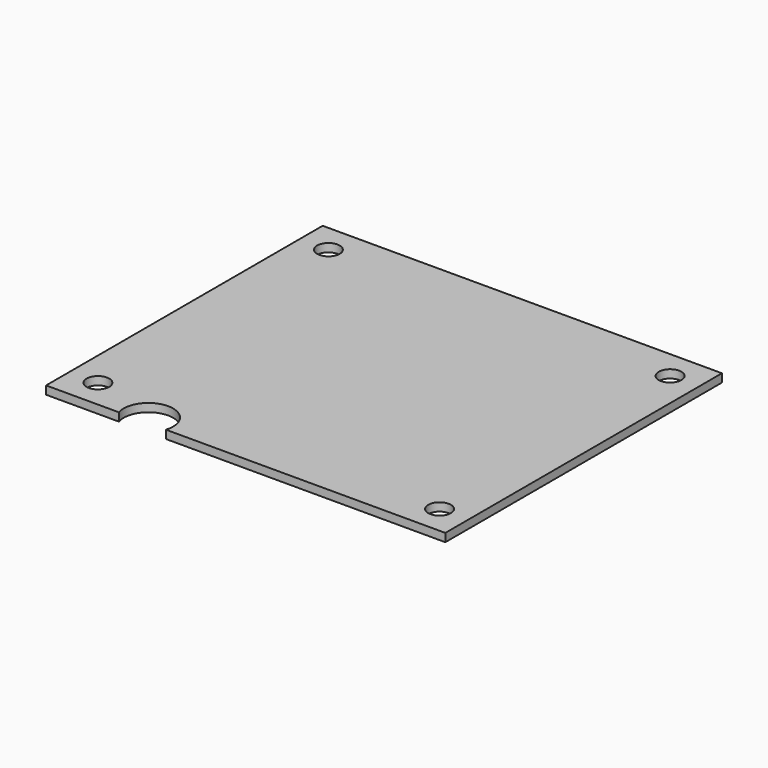
from build123d import *

# Parameters (mm, degrees)
F0_W     = 97
F0_H     = 84
F1_DEPTH = 2
F2_R     = 2.75
F3_DEPTH = 2
F5_DEPTH = 2


with BuildPart() as f1:
    # F0 (on Top) → F1 (new body)
    with BuildSketch(Plane.XY):
        Rectangle(F0_W, F0_H)
    extrude(amount=F1_DEPTH)

    # F2 (on face) → F3 (cut, through all)
    with BuildSketch(Plane.XY.offset(2)):
        with Locations((-41.504115, 35.0012)):
            Circle(F2_R)
        with Locations((41.504115, 35.0012)):
            Circle(F2_R)
        with Locations((41.504115, -35.0012)):
            Circle(F2_R)
        with Locations((-41.504115, -35.0012)):
            Circle(F2_R)
    extrude(amount=-F3_DEPTH, mode=Mode.SUBTRACT)

    # F4 (on face) → F5 (cut, through all)
    with BuildSketch(Plane.XY.offset(2)):
        with BuildLine():
            Line((-30.815778, -42), (-19.381491, -42))
            ThreePointArc((-19.381491, -42), (-25.098634, -34.179487), (-30.815778, -42))
        make_face()
    extrude(amount=-F5_DEPTH, mode=Mode.SUBTRACT)


solid = f1.part
